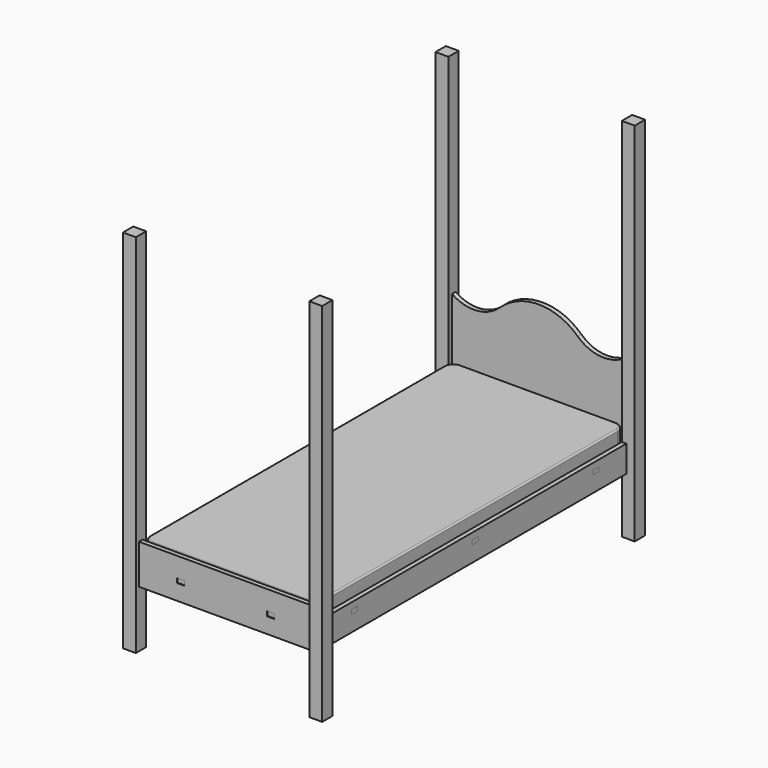
from build123d import *

# Parameters (mm, degrees)
F4_DEPTH  = 6
F2_W      = 228.6
F2_H      = 508
F5_DEPTH  = 25
F6_R      = 12
F7_R      = 2
F9_W      = 10
F9_H      = 6
F10_DEPTH = 6
F12_W     = 10
F12_H     = 6
F13_DEPTH = 6
F15_W     = 498
F15_H     = 35
F15_W_2   = 10
F15_H_2   = 6
F16_DEPTH = 6
F18_W     = 17
F18_H     = 17
F19_DEPTH = 482.6


with BuildPart() as f4:
    # F3 (on offset) → F4 (new body)
    with BuildSketch(Plane.XY.offset(101.6)):
        Polygon((-64.3, 254), (-114.3, 254), (-114.3, 204), (-120.300002, 204), (-120.300002, 194), (-114.3, 194), (-114.3, 5), (-120.3, 5), (-120.3, -5), (-114.3, -5), (-114.3, -194), (-120.300002, -194), (-120.300002, -204), (-114.3, -204), (-114.3, -254), (-64.3, -254), (-64.3, -260.000002), (-54.3, -260.000002), (-54.3, -254), (54.3, -254), (54.3, -260.000002), (64.3, -260.000002), (64.3, -254), (114.3, -254), (114.3, -204), (120.300002, -204), (120.300002, -194), (114.3, -194), (114.3, -5), (120.3, -5), (120.3, 5), (114.3, 5), (114.3, 194), (120.300002, 194), (120.300002, 204), (114.3, 204), (114.3, 254), (64.3, 254), (64.3, 260.000002), (54.3, 260.000002), (54.3, 254), (-54.3, 254), (-54.3, 260.000002), (-64.3, 260.000002), align=None)
    extrude(amount=-F4_DEPTH)


with BuildPart() as f5:
    # F2 (on offset) → F5 (new body)
    with BuildSketch(Plane.XY.offset(127)):
        Rectangle(F2_W, F2_H)
    extrude(amount=-F5_DEPTH)

    # F6
    f6_edges = [f5.edges().sort_by_distance(p)[0] for p in [
        (-114.3, 254, 114.5),
        (-114.3, -254, 114.5),
        (114.3, -254, 114.5),
        (114.3, 254, 114.5),
    ]]
    fillet(f6_edges, radius=F6_R)

    # F7
    f7_edges = [f5.edges().sort_by_distance(p)[0] for p in [
        (114.3, 0, 127),
        (114.3, 0, 102),
    ]]
    fillet(f7_edges, radius=F7_R)


with BuildPart() as f10:
    # F9 (on offset) → F10 (new body)
    with BuildSketch(Plane.XZ.offset(-255)):
        with BuildLine():
            Line((-114.3, 75), (114.3, 75))
            Line((114.3, 75), (114.3, 92.5))
            Line((114.3, 92.5), (120.3, 92.5))
            Line((120.3, 92.5), (120.3, 102.5))
            Line((120.3, 102.5), (114.3, 102.5))
            Line((114.3, 102.5), (114.3, 177.5))
            Line((114.3, 177.5), (120.3, 177.5))
            Line((120.3, 177.5), (120.3, 187.5))
            Line((120.3, 187.5), (114.3, 187.5))
            Line((114.3, 187.5), (114.3, 205))
            ThreePointArc((114.3, 205), (82.040028, 196.139586), (51.414373, 209.603684))
            ThreePointArc((51.414373, 209.603684), (0, 230), (-51.414373, 209.603684))
            ThreePointArc((-51.414373, 209.603684), (-82.040028, 196.139586), (-114.3, 205))
            Line((-114.3, 205), (-114.3, 187.5))
            Line((-114.3, 187.5), (-120.3, 187.5))
            Line((-120.3, 187.5), (-120.3, 177.5))
            Line((-120.3, 177.5), (-114.3, 177.5))
            Line((-114.3, 177.5), (-114.3, 102.5))
            Line((-114.3, 102.5), (-120.3, 102.5))
            Line((-120.3, 102.5), (-120.3, 92.5))
            Line((-120.3, 92.5), (-114.3, 92.5))
            Line((-114.3, 92.5), (-114.3, 75))
        make_face()
        with Locations((-59.3, 98.6)):
            Rectangle(F9_W, F9_H, mode=Mode.SUBTRACT)
        with Locations((59.3, 98.6)):
            Rectangle(F9_W, F9_H, mode=Mode.SUBTRACT)
    extrude(amount=-F10_DEPTH)


with BuildPart() as f13:
    # F12 (on offset) → F13 (new body)
    with BuildSketch(Plane.XZ.offset(255)):
        Polygon((-120.3, 92.5), (-114.3, 92.5), (-114.3, 75), (114.3, 75), (114.3, 92.5), (120.3, 92.5), (120.3, 102.5), (114.3, 102.5), (114.3, 127.271906), (-114.3, 127.271906), (-114.3, 102.5), (-120.3, 102.5), align=None)
        with Locations((-59.3, 98.6)):
            Rectangle(F12_W, F12_H, mode=Mode.SUBTRACT)
        with Locations((59.3, 98.6)):
            Rectangle(F12_W, F12_H, mode=Mode.SUBTRACT)
    extrude(amount=F13_DEPTH)


with BuildPart() as f16:
    # F15 (on offset) → F16 (new body)
    with BuildSketch(Plane.YZ.offset(-114.3)):
        with Locations((0, 92.5)):
            Rectangle(F15_W, F15_H)
        with Locations((-199, 98.6)):
            Rectangle(F15_W_2, F15_H_2, mode=Mode.SUBTRACT)
        with Locations((0, 98.6)):
            Rectangle(F15_W_2, F15_H_2, mode=Mode.SUBTRACT)
        with Locations((199, 98.6)):
            Rectangle(F15_W_2, F15_H_2, mode=Mode.SUBTRACT)
    extrude(amount=-F16_DEPTH)


with BuildPart() as f17_1:
    # F17: instance of F16
    add(f16.part.mirror(Plane.YZ))


with BuildPart() as f19:
    # F18 (on Top) → F19 (new body)
    with BuildSketch(Plane.XY):
        with Locations((-122.8, 257.5)):
            Rectangle(F18_W, F18_H)
    extrude(amount=F19_DEPTH)


with BuildPart() as f20_1:
    # F20: instance of F19
    add(f19.part.mirror(Plane.YZ))


with BuildPart() as f21_1:
    # F21: instance of F19
    add(f19.part.mirror(Plane.XZ))


with BuildPart() as f21_2:
    # F21: instance of F20_1
    add(f20_1.part.mirror(Plane.XZ))


solid = Compound([f4.part, f5.part, f10.part, f13.part, f16.part, f17_1.part, f19.part, f20_1.part, f21_1.part, f21_2.part])
